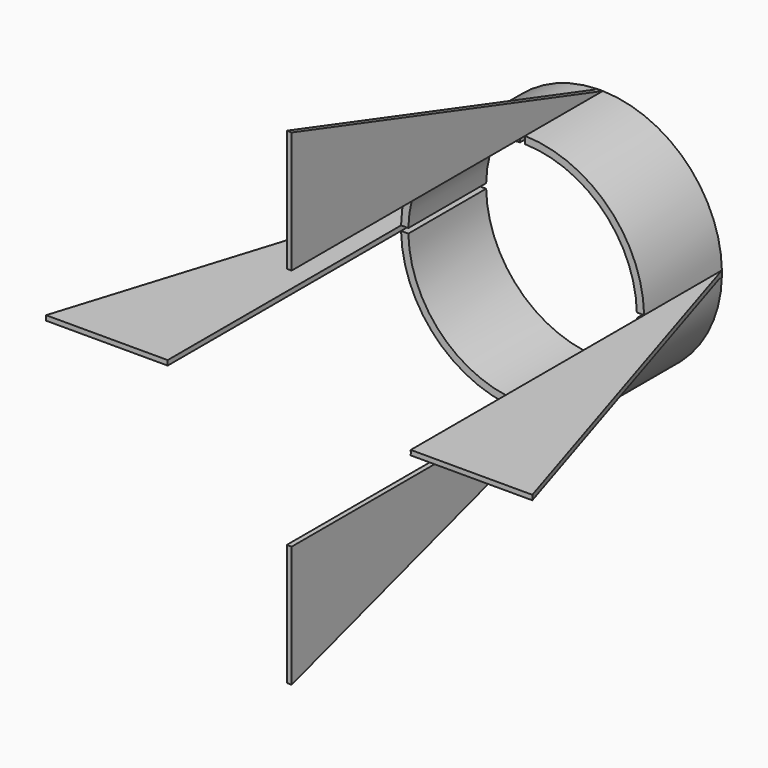
from build123d import *

# Parameters (mm, degrees)
F1_DEPTH  = 25.4
F2_DEPTH  = 101.6
F4_DEPTH  = 25.4
F6_DEPTH  = 25.4
F8_DEPTH  = 25.4
F10_DEPTH = 25.4


with BuildPart() as f1:
    # F0 (on Front) → F1 (new body)
    with BuildSketch(Plane.XZ):
        with BuildLine():
            Line((29.8382439162, 0.635), (31.7436493649, 0.635))
            ThreePointArc((31.7436493649, 0.635), (22.4506403027, 22.4506403027), (0.635, 31.7436493649))
            Line((0.635, 31.7436493649), (0.635, 29.8382439162))
            ThreePointArc((0.635, 29.8382439162), (21.1036018845, 21.1036018845), (29.8382439162, 0.635))
        make_face()
    extrude(amount=F1_DEPTH)


with BuildPart() as f1b:
    # F0 (on Front) → F1, piece 2 (new body)
    with BuildSketch(Plane.XZ):
        with BuildLine():
            Line((-0.635, 29.8382439162), (-0.635, 31.7436493649))
            ThreePointArc((-0.635, 31.7436493649), (-22.4506403027, 22.4506403027), (-31.7436493649, 0.635))
            Line((-31.7436493649, 0.635), (-29.8382439162, 0.635))
            ThreePointArc((-29.8382439162, 0.635), (-21.1036018845, 21.1036018845), (-0.635, 29.8382439162))
        make_face()
    extrude(amount=F1_DEPTH)


with BuildPart() as f1c:
    # F0 (on Front) → F1, piece 3 (new body)
    with BuildSketch(Plane.XZ):
        with BuildLine():
            ThreePointArc((-31.7436493649, -0.635), (-22.4506403027, -22.4506403027), (-0.635, -31.7436493649))
            Line((-0.635, -31.7436493649), (-0.635, -29.8382439162))
            ThreePointArc((-0.635, -29.8382439162), (-21.1036018845, -21.1036018845), (-29.8382439162, -0.635))
            Line((-29.8382439162, -0.635), (-31.7436493649, -0.635))
        make_face()
    extrude(amount=F1_DEPTH)


with BuildPart() as f1d:
    # F0 (on Front) → F1, piece 4 (new body)
    with BuildSketch(Plane.XZ):
        with BuildLine():
            ThreePointArc((0.635, -31.7436493649), (22.4506403027, -22.4506403027), (31.7436493649, -0.635))
            Line((31.7436493649, -0.635), (29.8382439162, -0.635))
            ThreePointArc((29.8382439162, -0.635), (21.1036018845, -21.1036018845), (0.635, -29.8382439162))
            Line((0.635, -29.8382439162), (0.635, -31.7436493649))
        make_face()
    extrude(amount=F1_DEPTH)


with BuildPart() as f2:
    # F0 (on Front) → F2 (new body)
    with BuildSketch(Plane.XZ):
        with BuildLine():
            ThreePointArc((-31.7436493649, -0.635), (-31.75, 0), (-31.7436493649, 0.635))
            Line((-31.7436493649, 0.635), (-63.5, 0.635))
            Line((-63.5, 0.635), (-63.5, -0.635))
            Line((-63.5, -0.635), (-31.7436493649, -0.635))
        make_face()
    extrude(amount=F2_DEPTH)

    # F7 (on face) → F8 (cut)
    with BuildSketch(Plane.XY.offset(0.635)):
        Polygon((-63.5, -101.6), (-31.7436493649, 0), (-63.5, 0), align=None)
    extrude(amount=-F8_DEPTH, mode=Mode.SUBTRACT)


with BuildPart() as f2b:
    # F0 (on Front) → F2, piece 2 (new body)
    with BuildSketch(Plane.XZ):
        with BuildLine():
            ThreePointArc((-0.635, 31.7436493649), (0, 31.75), (0.635, 31.7436493649))
            Line((0.635, 31.7436493649), (0.635, 63.5))
            Line((0.635, 63.5), (-0.635, 63.5))
            Line((-0.635, 63.5), (-0.635, 31.7436493649))
        make_face()
    extrude(amount=F2_DEPTH)

    # F3 (on face) → F4 (cut)
    with BuildSketch(Plane.YZ.offset(0.635)):
        Polygon((-101.6, 63.5), (0, 31.7436493649), (0, 63.5), align=None)
    extrude(amount=-F4_DEPTH, mode=Mode.SUBTRACT)


with BuildPart() as f2c:
    # F0 (on Front) → F2, piece 3 (new body)
    with BuildSketch(Plane.XZ):
        with BuildLine():
            ThreePointArc((31.7436493649, 0.635), (31.7484123015, 0.3175158778), (31.75, 0))
            ThreePointArc((31.75, 0), (31.7484123015, -0.3175158778), (31.7436493649, -0.635))
            Line((31.7436493649, -0.635), (63.5, -0.635))
            Line((63.5, -0.635), (63.5, 0.635))
            Line((63.5, 0.635), (31.7436493649, 0.635))
        make_face()
    extrude(amount=F2_DEPTH)

    # F5 (on face) → F6 (cut)
    with BuildSketch(Plane(origin=(0, 0, -0.635), x_dir=(1, 0, 0), z_dir=(0, 0, -1))):
        Polygon((63.5, 101.6), (31.7436493649, 0), (63.5, 0), align=None)
    extrude(amount=-F6_DEPTH, mode=Mode.SUBTRACT)


with BuildPart() as f2d:
    # F0 (on Front) → F2, piece 4 (new body)
    with BuildSketch(Plane.XZ):
        with BuildLine():
            Line((0.635, -63.5), (0.635, -31.7436493649))
            ThreePointArc((0.635, -31.7436493649), (0, -31.75), (-0.635, -31.7436493649))
            Line((-0.635, -31.7436493649), (-0.635, -63.5))
            Line((-0.635, -63.5), (0.635, -63.5))
        make_face()
    extrude(amount=F2_DEPTH)

    # F9 (on face) → F10 (cut)
    with BuildSketch(Plane.YZ.offset(0.635)):
        Polygon((0, -63.5), (0, -31.7436493649), (-101.6, -63.5), align=None)
    extrude(amount=-F10_DEPTH, mode=Mode.SUBTRACT)


solid = Compound([f1.part, f1b.part, f1c.part, f1d.part, f2.part, f2b.part, f2c.part, f2d.part])
